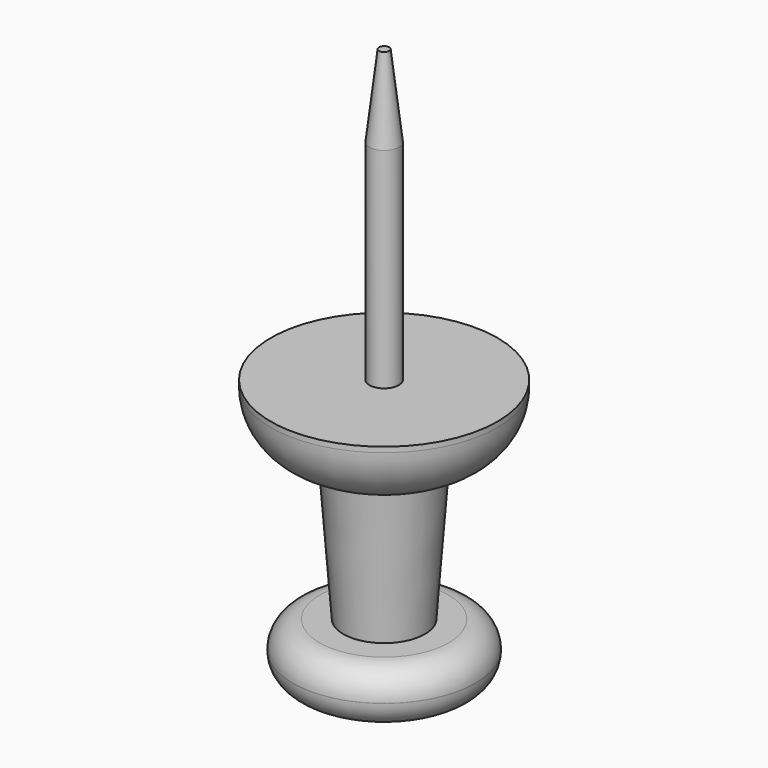
from build123d import *

# Parameters (mm, degrees)
F0_R      = 3.575
F1_DEPTH  = 2.1
F2_R      = 1.6
F3_DEPTH  = 8.25
F4_R      = 4.44
F4_R_2    = 1.6
F5_DEPTH  = 2.6
F6_R      = 1.0460304523
F7_R      = 2.3939824527
F8_R      = 2.025
F10_R     = 0.575
F11_DEPTH = 8.2
F12_R     = 0.2
F13_DEPTH = 3.2
F14_R     = 0.575
F15_R     = 0.2


with BuildPart() as f1:
    # F0 (on Top) → F1 (new body)
    with BuildSketch(Plane.XY):
        Circle(F0_R)
    extrude(amount=F1_DEPTH)

    # F2 (on face) → F3 (join)
    with BuildSketch(Plane.XY.offset(2.1)):
        Circle(F2_R)
    extrude(amount=F3_DEPTH)

    # F4 (on face) → F5 (join)
    with BuildSketch(Plane.XY.offset(10.35)):
        Circle(F4_R)
        Circle(F4_R_2, mode=Mode.SUBTRACT)
    extrude(amount=-F5_DEPTH)

    # F6
    f6_edges = [f1.edges().sort_by_distance(p)[0] for p in [
        (-3.575, 0, 2.1),
        (-3.575, 0, 0),
    ]]
    fillet(f6_edges, radius=F6_R)

    # F7
    f7_edges = [f1.edges().sort_by_distance(p)[0] for p in [
        (-4.44, 0, 7.75),
    ]]
    fillet(f7_edges, radius=F7_R)

    # F2 (on face) → F9 section 0
    with BuildSketch(Plane.XY.offset(2.1)):
        Circle(F2_R)
    # F8 (on face) → F9 section 1
    with BuildSketch(Plane(origin=(0, 0, 7.75), x_dir=(1, 0, 0), z_dir=(0, 0, -1))):
        Circle(F8_R)
    loft()

    # F10 (on face) → F11 (join)
    with BuildSketch(Plane.XY.offset(10.35)):
        Circle(F10_R)
    extrude(amount=F11_DEPTH)

    # F12 (on face) → F13 (join)
    with BuildSketch(Plane.XY.offset(18.55)):
        Circle(F12_R)
    extrude(amount=F13_DEPTH)

    # F14 (on face) → F16 section 0
    with BuildSketch(Plane.XY.offset(18.55)):
        Circle(F14_R)
    # F15 (on face) → F16 section 1
    with BuildSketch(Plane.XY.offset(21.75)):
        Circle(F15_R)
    loft()


solid = f1.part
